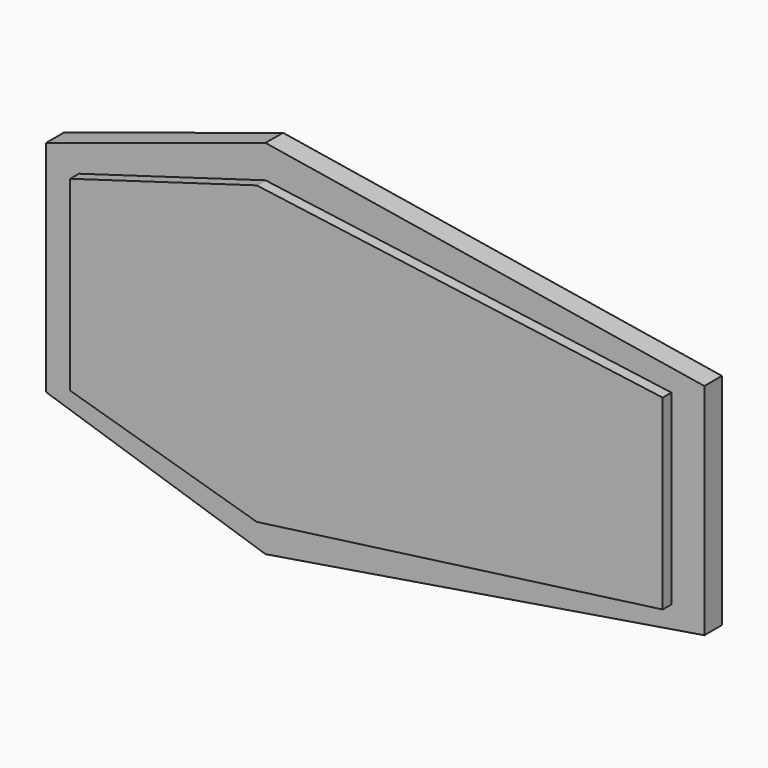
from build123d import *

# Parameters (mm, degrees)
F0_W     = 20
F0_H     = 20
F0_W_2   = 40
F1_DEPTH = 3
F3_DEPTH = 1


with BuildPart() as f1:
    # F0 (on Front) → F1 (new body)
    with BuildSketch(Plane.XZ):
        with Locations((-20, 0)):
            Rectangle(F0_W, F0_H)
        Polygon((-30, 10), (-10, 10), (-10, 16.5), align=None)
        Polygon((-10, 10), (30, 10), (-10, 16.5), align=None)
        with Locations((10, 0)):
            Rectangle(F0_W_2, F0_H)
        Polygon((-10, -16.5), (30, -10), (-10, -10), align=None)
        Polygon((-10, -16.5), (-10, -10), (-30, -10), align=None)
    extrude(amount=F1_DEPTH)

    # F2 (on face) → F3 (cut)
    with BuildSketch(Plane.XZ.offset(3)):
        Polygon((-10, -16.5), (-10, -13.5), (-27, -8.5), (-27, 8.5), (-10, 13.5), (-10, 16.5), (-30, 10), (-30, -10), align=None)
        Polygon((27, 8.5), (27, -8.5), (-10, -13.5), (-10, -16.5), (30, -10), (30, 10), (-10, 16.5), (-10, 13.5), align=None)
    extrude(amount=-F3_DEPTH, mode=Mode.SUBTRACT)


solid = f1.part
